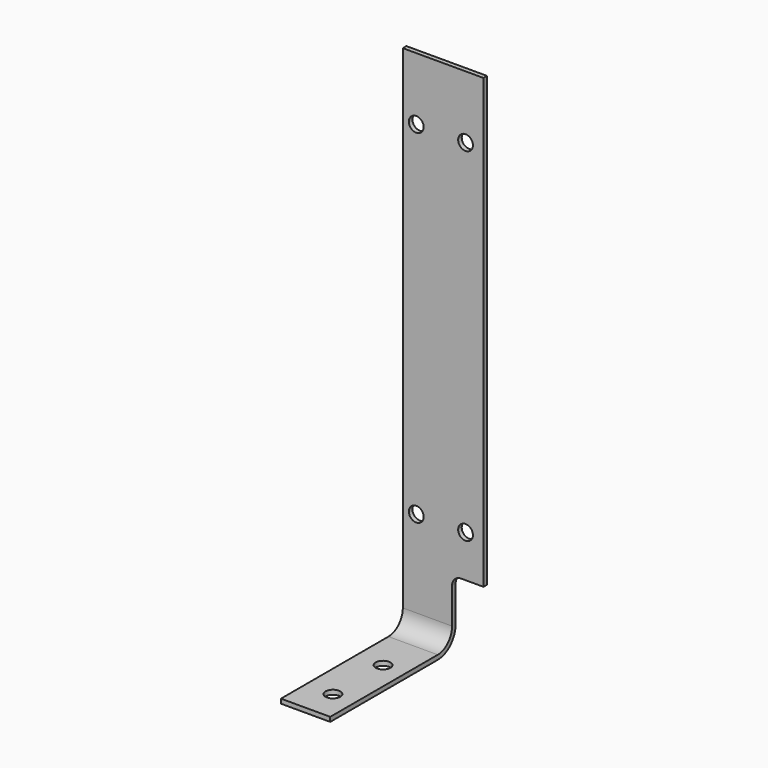
from build123d import *

# Parameters (mm, degrees)
F2_W     = 18
F2_H     = 1
F4_R     = 1.65
F5_DEPTH = 1
F6_R     = 1.65
F7_DEPTH = 35.001


with BuildPart() as f3:
    # F3: sweep along a path in F0
    with BuildLine(Plane.YZ) as f3_path:
        Line((-35, 0), (-5, 0))
        ThreePointArc((-5, 0), (-1.4644660941, 1.4644660941), (0, 5))
        Line((0, 5), (0, 115))
    # F2 (on plane+point) → F3 (sweep)
    with BuildSketch(Plane.XZ.offset(35)):
        with Locations((9, 0.5)):
            Rectangle(F2_W, F2_H)
    sweep(path=f3_path.line)

    # F4 (on face) → F5 (cut, through all)
    with BuildSketch(Plane.XY.offset(1)):
        with Locations((6, -14)):
            Circle(F4_R)
        with Locations((6, -28)):
            Circle(F4_R)
    extrude(amount=-F5_DEPTH, mode=Mode.SUBTRACT)

    # F6 (on face) → F7 (cut, through all)
    with BuildSketch(Plane(origin=(0, 0, 0), x_dir=(-1, 0, 0), z_dir=(0, 1, 0))):
        with Locations((-3, 24.4)):
            Circle(F6_R)
        with Locations((-14, 24.4)):
            Circle(F6_R)
        with Locations((-14, 101)):
            Circle(F6_R)
        with Locations((-3, 101)):
            Circle(F6_R)
        with BuildLine():
            Line((-18, 15), (-18, 0))
            Line((-18, 0), (-11, 0))
            Line((-11, 0), (-11, 13))
            ThreePointArc((-11, 13), (-11.5857864376, 14.4142135624), (-13, 15))
            Line((-13, 15), (-18, 15))
        make_face()
    extrude(amount=-F7_DEPTH, mode=Mode.SUBTRACT)


solid = f3.part
